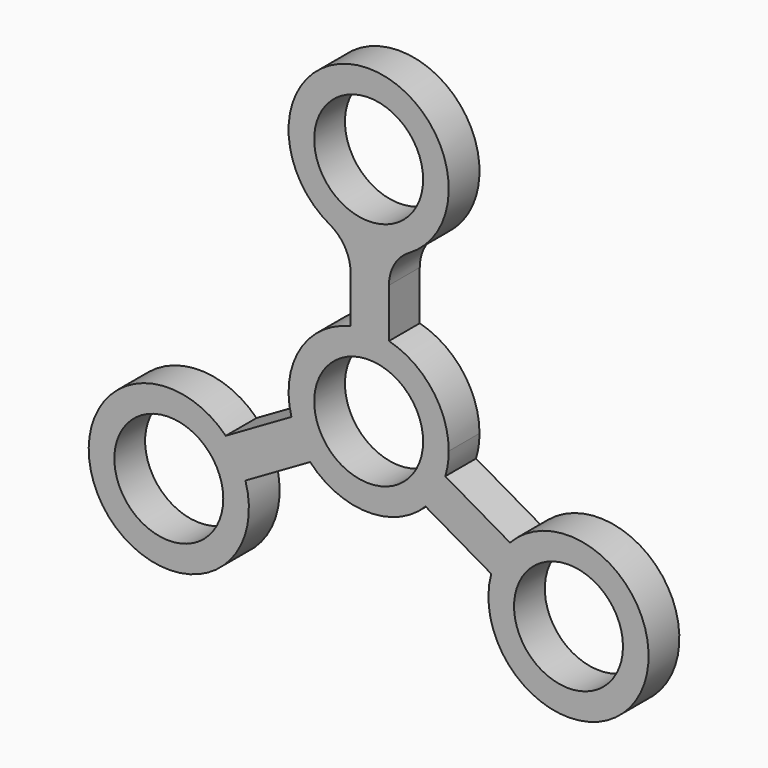
from build123d import *

# Parameters (mm, degrees)
F0_R     = 8.5
F1_DEPTH = 6


with BuildPart() as f1:
    # F0 (on Front) → F1 (new body)
    with BuildSketch(Plane.XZ):
        with BuildLine():
            ThreePointArc((12.5, 0), (9.897185, 7.635165), (3.172682, 12.090661))
            ThreePointArc((3.172682, 12.090661), (0.177882, 12.498734), (-2.827318, 12.176053))
            ThreePointArc((-2.827318, 12.176053), (-10.73528, 6.403418), (-12.057161, -3.297707))
            ThreePointArc((-12.057161, -3.297707), (-10.913162, -6.095317), (-9.131112, -8.536556))
            ThreePointArc((-9.131112, -8.536556), (-0.177882, -12.498734), (8.884479, -8.792954))
            ThreePointArc((8.884479, -8.792954), (10.73528, -6.403418), (11.95843, -3.639497))
            ThreePointArc((11.95843, -3.639497), (12.363866, -1.839785), (12.5, 0))
        make_face()
        Circle(F0_R, mode=Mode.SUBTRACT)
        with BuildLine():
            ThreePointArc((3.172682, 19.749459), (4.01393, 22.907963), (6.314776, 25.22959))
            ThreePointArc((6.314776, 25.22959), (-0.13188, 48.516555), (-6.085755, 25.098753))
            ThreePointArc((-6.085755, 25.098753), (-3.702196, 22.768604), (-2.827318, 19.552156))
            Line((-2.827318, 19.552156), (-2.827318, 12.176053))
            ThreePointArc((-2.827318, 12.176053), (0.177882, 12.498734), (3.172682, 12.090661))
            Line((3.172682, 12.090661), (3.172682, 19.749459))
        make_face()
        with Locations((0, 36.01725)):
            Circle(F0_R, mode=Mode.SUBTRACT)
        with BuildLine():
            ThreePointArc((-9.131112, -8.536556), (-10.913162, -6.095317), (-12.057161, -3.297707))
            Line((-12.057161, -3.297707), (-22.307375, -9.215671))
            ThreePointArc((-22.307375, -9.215671), (-41.927134, -24.412043), (-19.233423, -14.369128))
            Line((-19.233423, -14.369128), (-9.131112, -8.536556))
        make_face()
        with Locations((-31.191854, -18.008625)):
            Circle(F0_R, mode=Mode.SUBTRACT)
        with BuildLine():
            Line((22.060741, -9.472069), (11.95843, -3.639497))
            ThreePointArc((11.95843, -3.639497), (10.73528, -6.403418), (8.884479, -8.792954))
            Line((8.884479, -8.792954), (19.134693, -14.710918))
            ThreePointArc((19.134693, -14.710918), (42.105016, -24.103942), (22.060741, -9.472069))
        make_face()
        with Locations((31.191854, -18.008625)):
            Circle(F0_R, mode=Mode.SUBTRACT)
    extrude(amount=F1_DEPTH)


solid = f1.part
